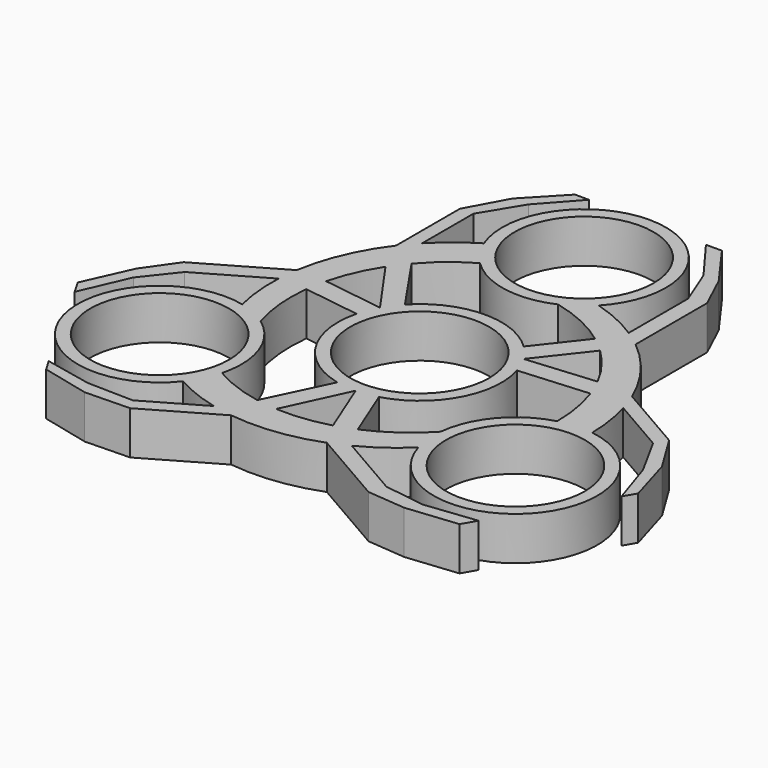
from build123d import *

# Parameters (mm, degrees)
F0_R     = 11.2
F1_DEPTH = 7


with BuildPart() as f1:
    # F0 (on Top) → F1 (new body)
    with BuildSketch(Plane.XY):
        with BuildLine():
            Line((-21.939748, 4.555207), (-12.792678, 3.253825))
            ThreePointArc((-12.792678, 3.253825), (-11.283485, -6.850034), (-3.015751, -12.850885))
            Line((-3.015751, -12.850885), (-7.8557, -22.943517))
            Line((-7.8557, -22.943517), (-9.711457, -26.813285))
            Line((-9.711457, -26.813285), (-11.121781, -27.627536))
            Line((-11.121781, -27.627536), (-20.063522, -32.790052))
            Line((-20.063522, -32.790052), (-27.45722, -32.629778))
            Line((-27.45722, -32.629778), (-35.012019, -31.040825))
            Line((-35.012019, -31.040825), (-33.880058, -33.001439))
            Line((-33.880058, -33.001439), (-26.171613, -34.856514))
            Line((-26.171613, -34.856514), (-18.97682, -34.672275))
            Line((-18.97682, -34.672275), (-7.830637, -28.237023))
            Line((-7.830637, -28.237023), (-6.368866, -27.393069))
            Line((-6.368866, -27.393069), (-4.491412, -23.347324))
            Line((-4.491412, -23.347324), (0.218357, -13.198194))
            Line((0.218357, -13.198194), (3.914865, -22.392298))
            Line((3.914865, -22.392298), (5.384581, -26.047835))
            Line((5.384581, -26.047835), (6.257514, -26.551823))
            Line((6.257514, -26.551823), (18.746148, -33.762139))
            Line((18.746148, -33.762139), (24.941822, -34.300735))
            Line((24.941822, -34.300735), (33.179322, -33.454726))
            Line((33.179322, -33.454726), (34.46769, -31.223206))
            Line((34.46769, -31.223206), (26.169356, -32.174584))
            Line((26.169356, -32.174584), (19.596018, -31.214334))
            Line((19.596018, -31.214334), (9.226481, -25.227478))
            Line((9.226481, -25.227478), (8.427354, -24.766103))
            Line((8.427354, -24.766103), (7.024949, -21.277983))
            Line((7.024949, -21.277983), (3.578444, -12.705697))
            ThreePointArc((3.578444, -12.705697), (11.574046, -6.346768), (12.637068, 3.813725))
            Line((12.637068, 3.813725), (23.797519, 4.668523))
            Line((23.797519, 4.668523), (28.076715, 4.996274))
            Line((28.076715, 4.996274), (29.487039, 4.182023))
            Line((29.487039, 4.182023), (38.428779, -0.980493))
            Line((38.428779, -0.980493), (41.986827, -7.46376))
            Line((41.986827, -7.46376), (44.388153, -14.800885))
            Line((44.388153, -14.800885), (45.520113, -12.840272))
            Line((45.520113, -12.840272), (43.272433, -5.237025))
            Line((43.272433, -5.237025), (39.515481, 0.901729))
            Line((39.515481, 0.901729), (28.369297, 7.336981))
            Line((28.369297, 7.336981), (26.907526, 8.180935))
            Line((26.907526, 8.180935), (22.465082, 7.783985))
            Line((22.465082, 7.783985), (11.320793, 6.788199))
            Line((11.320793, 6.788199), (17.434867, 14.586522))
            Line((17.434867, 14.586522), (19.865796, 17.687101))
            Line((19.865796, 17.687101), (19.865796, 18.695077))
            Line((19.865796, 18.695077), (19.865796, 33.11571))
            Line((19.865796, 33.11571), (17.234397, 38.750619))
            Line((17.234397, 38.750619), (12.382981, 45.461498))
            Line((12.382981, 45.461498), (9.806245, 45.461498))
            Line((9.806245, 45.461498), (14.77933, 38.750619))
            Line((14.77933, 38.750619), (17.234397, 32.577816))
            Line((17.234397, 32.577816), (17.234397, 20.604106))
            Line((17.234397, 20.604106), (17.234397, 19.681354))
            Line((17.234397, 19.681354), (14.9148, 16.722776))
            Line((14.9148, 16.722776), (9.214235, 9.451872))
            ThreePointArc((9.214235, 9.451872), (-0.290561, 13.196802), (-9.621317, 9.03716))
            Line((-9.621317, 9.03716), (-15.941819, 18.274994))
            Line((-15.941819, 18.274994), (-18.365257, 21.817012))
            Line((-18.365257, 21.817012), (-18.365257, 23.445513))
            Line((-18.365257, 23.445513), (-18.365257, 33.770546))
            Line((-18.365257, 33.770546), (-14.529607, 40.093539))
            Line((-14.529607, 40.093539), (-9.376134, 45.84171))
            Line((-9.376134, 45.84171), (-11.640055, 45.84171))
            Line((-11.640055, 45.84171), (-17.10082, 40.093539))
            Line((-17.10082, 40.093539), (-20.538661, 33.770546))
            Line((-20.538661, 33.770546), (-20.538661, 20.900042))
            Line((-20.538661, 20.900042), (-20.538661, 19.212134))
            Line((-20.538661, 19.212134), (-17.97367, 15.563339))
            Line((-17.97367, 15.563339), (-11.53915, 6.409994))
            Line((-11.53915, 6.409994), (-21.349732, 7.805776))
            Line((-21.349732, 7.805776), (-25.250377, 8.360733))
            Line((-25.250377, 8.360733), (-26.12331, 7.856745))
            Line((-26.12331, 7.856745), (-38.611944, 0.646429))
            Line((-38.611944, 0.646429), (-42.176219, -4.449884))
            Line((-42.176219, -4.449884), (-45.562303, -12.006773))
            Line((-45.562303, -12.006773), (-44.273935, -14.238292))
            Line((-44.273935, -14.238292), (-40.948685, -6.576035))
            Line((-40.948685, -6.576035), (-36.830415, -1.363483))
            Line((-36.830415, -1.363483), (-26.460878, 4.623372))
            Line((-26.460878, 4.623372), (-25.661751, 5.084748))
            Line((-25.661751, 5.084748), (-21.939748, 4.555207))
        make_face()
        Circle(F0_R, mode=Mode.SUBTRACT)
        with BuildLine():
            Line((-9.711457, -26.813285), (-7.8557, -22.943517))
            ThreePointArc((-7.8557, -22.943517), (-12.025565, -21.787106), (-15.940622, -19.943903))
            ThreePointArc((-15.940622, -19.943903), (-16.27639, -12.118209), (-20.987711, -5.860599))
            ThreePointArc((-20.987711, -5.860599), (-23.219885, -4.563891), (-25.661751, -3.726428))
            ThreePointArc((-25.661751, -3.726428), (-41.175768, -20.890944), (-18.369131, -24.78487))
            ThreePointArc((-18.369131, -24.78487), (-14.840432, -26.448342), (-11.121781, -27.627536))
            Line((-11.121781, -27.627536), (-9.711457, -26.813285))
        make_face()
        with Locations((-28.702531, -16.571414)):
            Circle(F0_R, mode=Mode.SUBTRACT)
        with BuildLine():
            Line((-6.368866, -27.393069), (-7.830637, -28.237023))
            ThreePointArc((-7.830637, -28.237023), (-0.682852, -28.261424), (6.257514, -26.551823))
            Line((6.257514, -26.551823), (5.384581, -26.047835))
            Line((5.384581, -26.047835), (3.914865, -22.392298))
            ThreePointArc((3.914865, -22.392298), (-0.248488, -23.220008), (-4.491412, -23.347324))
            Line((-4.491412, -23.347324), (-6.368866, -27.393069))
        make_face()
        with BuildLine():
            Line((8.427354, -24.766103), (9.226481, -25.227478))
            ThreePointArc((9.226481, -25.227478), (12.8176, -23.040102), (16.058057, -20.360514))
            ThreePointArc((16.058057, -20.360514), (38.679972, -25.213789), (30.648892, -3.515699))
            ThreePointArc((30.648892, -3.515699), (30.325152, 0.37198), (29.487039, 4.182023))
            Line((29.487039, 4.182023), (28.076715, 4.996274))
            Line((28.076715, 4.996274), (23.797519, 4.668523))
            ThreePointArc((23.797519, 4.668523), (24.88097, 0.479108), (25.242237, -3.833032))
            ThreePointArc((25.242237, -3.833032), (18.632872, -8.036663), (15.569283, -15.245592))
            ThreePointArc((15.569283, -15.245592), (11.608949, -18.703471), (7.024949, -21.277983))
            Line((7.024949, -21.277983), (8.427354, -24.766103))
        make_face()
        with Locations((28.702531, -16.571414)):
            Circle(F0_R, mode=Mode.SUBTRACT)
        with BuildLine():
            ThreePointArc((28.369297, 7.336981), (24.816537, 13.539344), (19.865796, 18.695077))
            Line((19.865796, 18.695077), (19.865796, 17.687101))
            Line((19.865796, 17.687101), (17.434867, 14.586522))
            ThreePointArc((17.434867, 14.586522), (20.233361, 11.394807), (22.465082, 7.783985))
            Line((22.465082, 7.783985), (26.907526, 8.180935))
            Line((26.907526, 8.180935), (28.369297, 7.336981))
        make_face()
        with BuildLine():
            ThreePointArc((-12.279761, 28.300569), (-15.48472, 26.076362), (-18.365257, 23.445513))
            Line((-18.365257, 23.445513), (-18.365257, 21.817012))
            Line((-18.365257, 21.817012), (-15.941819, 18.274994))
            ThreePointArc((-15.941819, 18.274994), (-12.855404, 21.307998), (-9.301616, 23.776935))
            ThreePointArc((-9.301616, 23.776935), (-2.356482, 20.154872), (5.418428, 21.10619))
            ThreePointArc((5.418428, 21.10619), (10.393206, 19.40538), (14.9148, 16.722776))
            Line((14.9148, 16.722776), (17.234397, 19.681354))
            Line((17.234397, 19.681354), (17.234397, 20.604106))
            ThreePointArc((17.234397, 20.604106), (13.544514, 22.620419), (9.603694, 24.086942))
            ThreePointArc((9.603694, 24.086942), (2.495796, 46.104733), (-12.279761, 28.300569))
        make_face()
        with Locations((0, 33.142827)):
            Circle(F0_R, mode=Mode.SUBTRACT)
        with BuildLine():
            ThreePointArc((-20.538661, 20.900042), (-24.133685, 14.722079), (-26.12331, 7.856745))
            Line((-26.12331, 7.856745), (-25.250377, 8.360733))
            Line((-25.250377, 8.360733), (-21.349732, 7.805776))
            ThreePointArc((-21.349732, 7.805776), (-19.984873, 11.825201), (-17.97367, 15.563339))
            Line((-17.97367, 15.563339), (-20.538661, 19.212134))
            Line((-20.538661, 19.212134), (-20.538661, 20.900042))
        make_face()
        with BuildLine():
            ThreePointArc((-20.987711, -5.860599), (-22.002156, -0.701909), (-21.939748, 4.555207))
            Line((-21.939748, 4.555207), (-25.661751, 5.084748))
            Line((-25.661751, 5.084748), (-26.460878, 4.623372))
            ThreePointArc((-26.460878, 4.623372), (-26.362114, 0.419684), (-25.661751, -3.726428))
            ThreePointArc((-25.661751, -3.726428), (-23.219885, -4.563891), (-20.987711, -5.860599))
        make_face()
    extrude(amount=F1_DEPTH)


solid = f1.part
